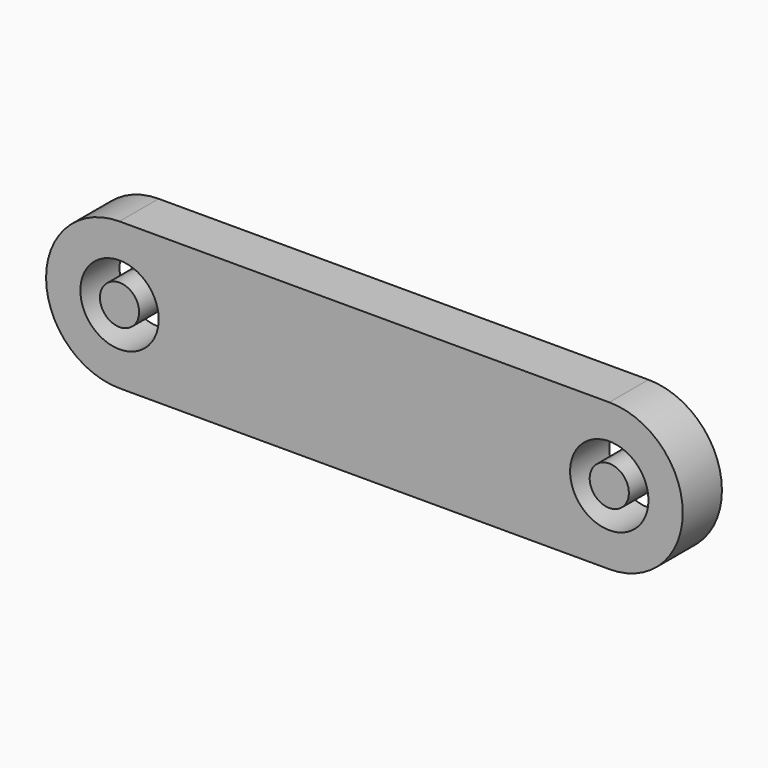
from build123d import *

# Parameters (mm, degrees)
F0_R     = 101.6
F0_R_2   = 50.8
F1_DEPTH = 63.5


with BuildPart() as f1:
    # F0 (on Front) → F1 (new body, symmetric)
    with BuildSketch(Plane.XZ):
        with BuildLine():
            ThreePointArc((634.996429, -190.5), (825.496429, -0.003571), (635.003571, 190.5))
            Line((635.003571, 190.5), (-634.996429, 190.5))
            ThreePointArc((-634.996429, 190.5), (-825.503571, 0.003571), (-635.003571, -190.5))
            Line((-635.003571, -190.5), (634.996429, -190.5))
        make_face()
        with Locations((634.996429, 0)):
            Circle(F0_R, mode=Mode.SUBTRACT)
        with Locations((-635.003571, 0)):
            Circle(F0_R, mode=Mode.SUBTRACT)
        with Locations((-635.003571, 0)):
            Circle(F0_R_2)
        with Locations((634.996429, 0)):
            Circle(F0_R_2)
    extrude(amount=F1_DEPTH, both=True)


solid = f1.part
